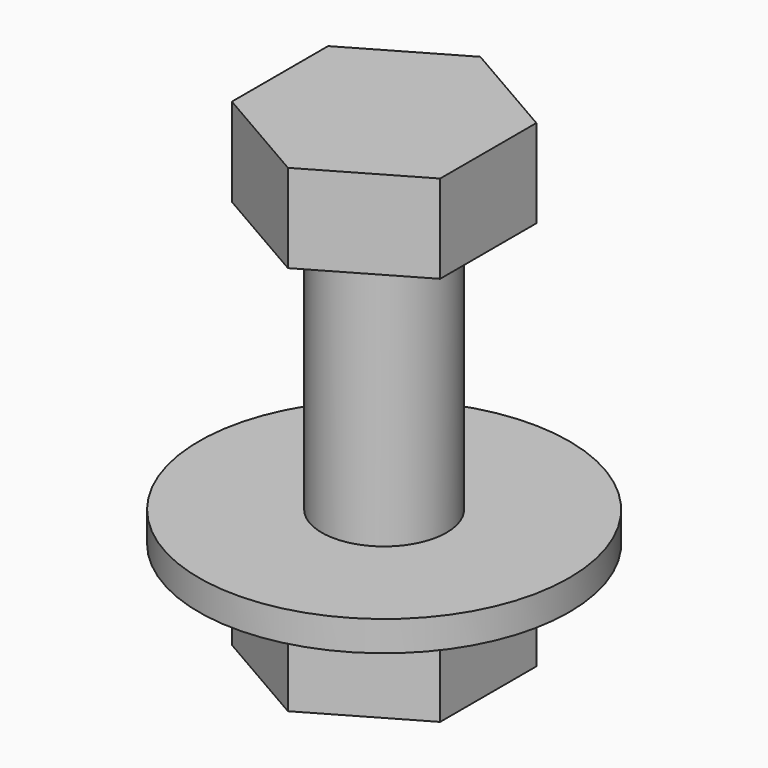
from build123d import *

# Parameters (mm, degrees)
F0_R     = 3
F1_DEPTH = 20
F3_DEPTH = 4.24
F5_DEPTH = 6
F6_R     = 8.89
F7_DEPTH = 1.4478
F9_DEPTH = 1.27


with BuildPart() as f1:
    # F0 (on Top) → F1 (new body)
    with BuildSketch(Plane.XY):
        Circle(F0_R)
    extrude(amount=-F1_DEPTH)

    # F2 (on face) → F3 (join)
    with BuildSketch(Plane.XY):
        Polygon((5, 2.8867513459), (0, 5.7735026919), (-5, 2.8867513459), (-5, -2.8867513459), (0, -5.7735026919), (5, -2.8867513459), align=None)
    extrude(amount=F3_DEPTH)

    # F4 (on face) → F5 (join)
    with BuildSketch(Plane(origin=(0, 0, -20), x_dir=(1, 0, 0), z_dir=(0, 0, -1))):
        Polygon((5, 2.8867513459), (0, 5.7735026919), (-5, 2.8867513459), (-5, -2.8867513459), (0, -5.7735026919), (5, -2.8867513459), align=None)
    extrude(amount=-F5_DEPTH)

    # F6 (on face) → F7 (join)
    with BuildSketch(Plane.XY.offset(-14)):
        Circle(F6_R)
    extrude(amount=F7_DEPTH)

    # F8 (on face) → F9 (cut)
    with BuildSketch(Plane(origin=(0, 0, -20), x_dir=(1, 0, 0), z_dir=(0, 0, -1))):
        with BuildLine():
            ThreePointArc((5, -0.8979977728), (5.0599604742, -0.4507771068), (5.08, 0))
            ThreePointArc((5.08, 0), (5.0599604742, 0.4507771068), (5, 0.8979977728))
            Line((5, 0.8979977728), (5, -0.8979977728))
        make_face()
        with BuildLine():
            Line((5, -0.8979977728), (5, 0.8979977728))
            ThreePointArc((5, 0.8979977728), (4.3994090512, 2.54), (3.2776888838, 3.8811281325))
            Line((3.2776888838, 3.8811281325), (1.7223111162, 4.7791259053))
            ThreePointArc((1.7223111162, 4.7791259053), (0, 5.08), (-1.7223111162, 4.7791259053))
            Line((-1.7223111162, 4.7791259053), (-3.2776888838, 3.8811281325))
            ThreePointArc((-3.2776888838, 3.8811281325), (-4.3994090512, 2.54), (-5, 0.8979977728))
            Line((-5, 0.8979977728), (-5, -0.8979977728))
            ThreePointArc((-5, -0.8979977728), (-4.3994090512, -2.54), (-3.2776888838, -3.8811281325))
            Line((-3.2776888838, -3.8811281325), (-1.7223111162, -4.7791259053))
            ThreePointArc((-1.7223111162, -4.7791259053), (0, -5.08), (1.7223111162, -4.7791259053))
            Line((1.7223111162, -4.7791259053), (3.2776888838, -3.8811281325))
            ThreePointArc((3.2776888838, -3.8811281325), (4.3994090512, -2.54), (5, -0.8979977728))
        make_face()
        with BuildLine():
            ThreePointArc((3.2776888838, 3.8811281325), (4.3994090512, 2.54), (5, 0.8979977728))
            Line((5, 0.8979977728), (5, 2.8867513459))
            Line((5, 2.8867513459), (3.2776888838, 3.8811281325))
        make_face()
        with BuildLine():
            Line((5, -2.8867513459), (5, -0.8979977728))
            ThreePointArc((5, -0.8979977728), (4.3994090512, -2.54), (3.2776888838, -3.8811281325))
            Line((3.2776888838, -3.8811281325), (5, -2.8867513459))
        make_face()
        with BuildLine():
            Line((1.7223111162, 4.7791259053), (3.2776888838, 3.8811281325))
            ThreePointArc((3.2776888838, 3.8811281325), (2.54, 4.3994090512), (1.7223111162, 4.7791259053))
        make_face()
        with BuildLine():
            ThreePointArc((1.7223111162, -4.7791259053), (2.54, -4.3994090512), (3.2776888838, -3.8811281325))
            Line((3.2776888838, -3.8811281325), (1.7223111162, -4.7791259053))
        make_face()
        with BuildLine():
            ThreePointArc((-1.7223111162, 4.7791259053), (0, 5.08), (1.7223111162, 4.7791259053))
            Line((1.7223111162, 4.7791259053), (0, 5.7735026919))
            Line((0, 5.7735026919), (-1.7223111162, 4.7791259053))
        make_face()
        with BuildLine():
            Line((0, -5.7735026919), (1.7223111162, -4.7791259053))
            ThreePointArc((1.7223111162, -4.7791259053), (0, -5.08), (-1.7223111162, -4.7791259053))
            Line((-1.7223111162, -4.7791259053), (0, -5.7735026919))
        make_face()
        with BuildLine():
            Line((-3.2776888838, 3.8811281325), (-1.7223111162, 4.7791259053))
            ThreePointArc((-1.7223111162, 4.7791259053), (-2.54, 4.3994090512), (-3.2776888838, 3.8811281325))
        make_face()
        with BuildLine():
            ThreePointArc((-3.2776888838, -3.8811281325), (-2.54, -4.3994090512), (-1.7223111162, -4.7791259053))
            Line((-1.7223111162, -4.7791259053), (-3.2776888838, -3.8811281325))
        make_face()
        with BuildLine():
            ThreePointArc((-5, 0.8979977728), (-4.3994090512, 2.54), (-3.2776888838, 3.8811281325))
            Line((-3.2776888838, 3.8811281325), (-5, 2.8867513459))
            Line((-5, 2.8867513459), (-5, 0.8979977728))
        make_face()
        with BuildLine():
            Line((-5, -2.8867513459), (-3.2776888838, -3.8811281325))
            ThreePointArc((-3.2776888838, -3.8811281325), (-4.3994090512, -2.54), (-5, -0.8979977728))
            Line((-5, -0.8979977728), (-5, -2.8867513459))
        make_face()
        with BuildLine():
            Line((-5, -0.8979977728), (-5, 0.8979977728))
            ThreePointArc((-5, 0.8979977728), (-5.08, 0), (-5, -0.8979977728))
        make_face()
    extrude(amount=-F9_DEPTH, mode=Mode.SUBTRACT)


solid = f1.part
